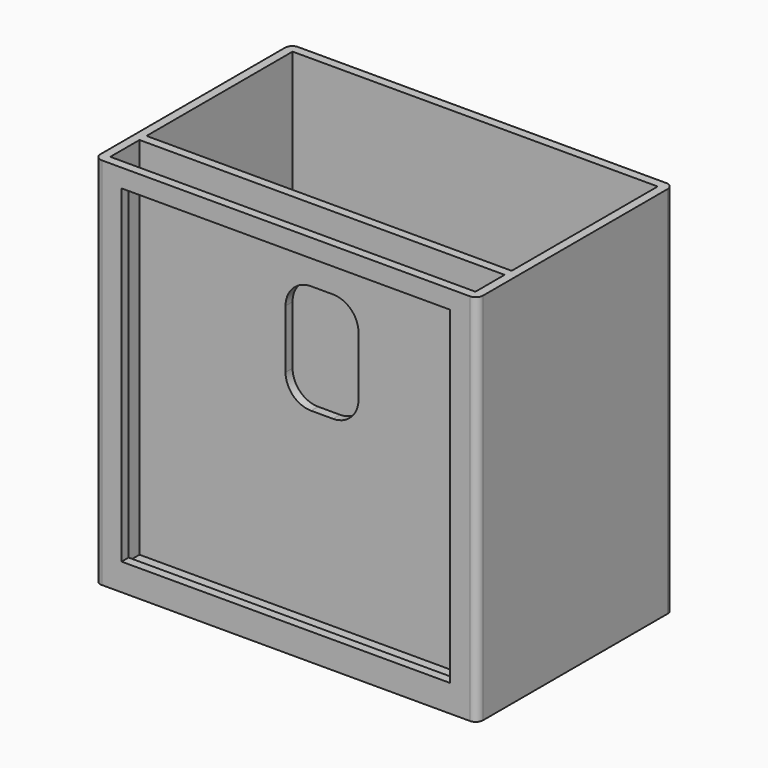
from build123d import *

# Parameters (mm, degrees)
SKETCH_W        = 104.8
SKETCH_H        = 102.4
PAD_DEPTH       = 67.2
SKETCH001_W     = 100
SKETCH001_H     = 50
POCKET_DEPTH    = 100
SKETCH002_W     = 100
SKETCH002_H     = 10
POCKET001_DEPTH = 100
SKETCH003_W     = 90
SKETCH003_H     = 90
POCKET002_DEPTH = 3
SKETCH004_W     = 20
SKETCH004_H     = 30
POCKET003_DEPTH = 5
FILLET_R        = 2
FILLET001_R     = 2
FILLET002_R     = 2
FILLET003_R     = 2
FILLET004_R     = 7
FILLET005_R     = 7
FILLET006_R     = 7
FILLET007_R     = 7


with BuildPart() as part:
    # Sketch → Pad (new body)
    with BuildSketch(Plane.XZ):
        with Locations((-52.4, 51.2)):
            Rectangle(SKETCH_W, SKETCH_H)
    extrude(amount=PAD_DEPTH)

    # Sketch001 (on Face1 of Pad) → Pocket (cut)
    with BuildSketch(Plane(origin=(0, 0, 102.4), x_dir=(-1, 0, 0), z_dir=(0, 0, 1))):
        with Locations((52.4, 27.4)):
            Rectangle(SKETCH001_W, SKETCH001_H)
    extrude(amount=-POCKET_DEPTH, mode=Mode.SUBTRACT)

    # Sketch002 (on Face1 of Pocket) → Pocket001 (cut)
    with BuildSketch(Plane(origin=(0, 0, 102.4), x_dir=(-1, 0, 0), z_dir=(0, 0, 1))):
        with Locations((52.4, 59.8)):
            Rectangle(SKETCH002_W, SKETCH002_H)
    extrude(amount=-POCKET001_DEPTH, mode=Mode.SUBTRACT)

    # Sketch003 (on Face4 of Pocket001) → Pocket002 (cut)
    with BuildSketch(Plane.XZ.offset(67.2)):
        with Locations((-52.4, 52.4)):
            Rectangle(SKETCH003_W, SKETCH003_H)
    extrude(amount=-POCKET002_DEPTH, mode=Mode.SUBTRACT)

    # Sketch004 (on Face7 of Pocket002) → Pocket003 (cut)
    with BuildSketch(Plane.XZ.offset(54.8)):
        with Locations((-52.4, 67.4)):
            Rectangle(SKETCH004_W, SKETCH004_H)
    extrude(amount=-POCKET003_DEPTH, mode=Mode.SUBTRACT)

    # Fillet
    fillet_edges = [part.edges().sort_by_distance(p)[0] for p in [
        (0, -67.2, 51.2),
    ]]
    fillet(fillet_edges, radius=FILLET_R)

    # Fillet001
    fillet001_edges = [part.edges().sort_by_distance(p)[0] for p in [
        (-104.8, -67.2, 51.2),
    ]]
    fillet(fillet001_edges, radius=FILLET001_R)

    # Fillet002
    fillet002_edges = [part.edges().sort_by_distance(p)[0] for p in [
        (-104.8, 0, 51.2),
    ]]
    fillet(fillet002_edges, radius=FILLET002_R)

    # Fillet003
    fillet003_edges = [part.edges().sort_by_distance(p)[0] for p in [
        (0, 0, 51.2),
    ]]
    fillet(fillet003_edges, radius=FILLET003_R)

    # Fillet004
    fillet004_edges = [part.edges().sort_by_distance(p)[0] for p in [
        (-62.4, -53.6, 52.4),
    ]]
    fillet(fillet004_edges, radius=FILLET004_R)

    # Fillet005
    fillet005_edges = [part.edges().sort_by_distance(p)[0] for p in [
        (-42.4, -53.6, 52.4),
    ]]
    fillet(fillet005_edges, radius=FILLET005_R)

    # Fillet006
    fillet006_edges = [part.edges().sort_by_distance(p)[0] for p in [
        (-42.4, -53.6, 82.4),
    ]]
    fillet(fillet006_edges, radius=FILLET006_R)

    # Fillet007
    fillet007_edges = [part.edges().sort_by_distance(p)[0] for p in [
        (-62.4, -53.6, 82.4),
    ]]
    fillet(fillet007_edges, radius=FILLET007_R)


solid = part.part
